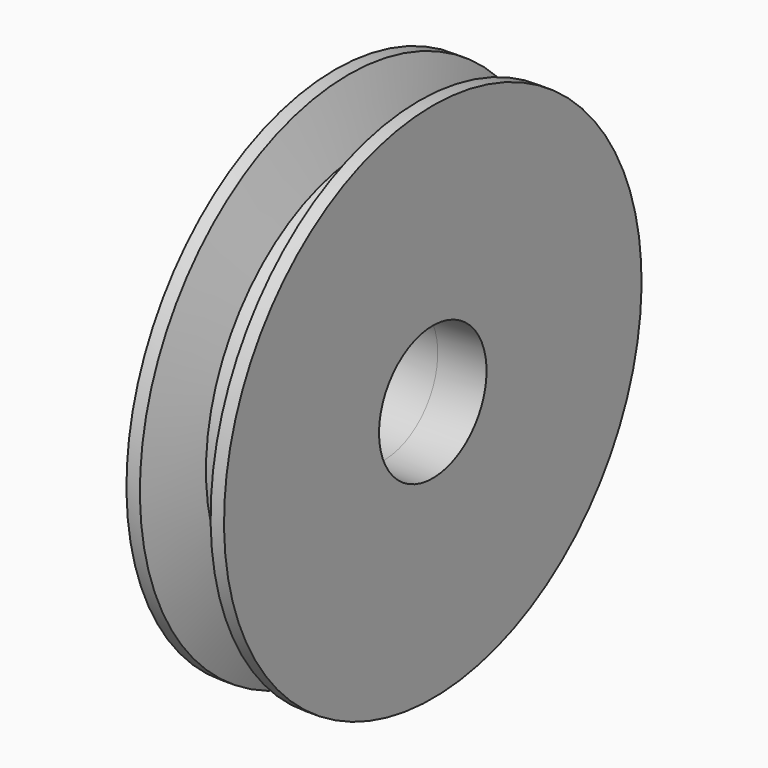
from build123d import *

# Parameters (mm, degrees)
F2_R     = 17.5
F3_DEPTH = 25


with BuildPart() as f1:
    # F0 (on Front) → F1 (revolve)
    with BuildSketch(Plane.XZ):
        Polygon((0, 37.8452404466), (0, 0), (12.7, 0), (12.7, 52.3875), (4.4460149232, 52.3875), align=None)
        Polygon((0, 52.3875), (0, 37.8452404466), (4.4460149232, 52.3875), align=None)
        Polygon((9.20242, 67.945), (4.4460149232, 52.3875), (12.7, 52.3875), (12.7, 67.945), align=None)
    revolve(axis=Axis((21.4788783342, 0, 0), (1, 0, 0)))

    # F2 (on face) → F3 (cut)
    with BuildSketch(Plane(origin=(0, 0, 0), x_dir=(0, -1, 0), z_dir=(-1, 0, 0))):
        Circle(F2_R)
    extrude(amount=-F3_DEPTH, mode=Mode.SUBTRACT)

    # F4: F1 across plane


with BuildPart() as f1_1:
    add(f1.part)
    add(f1.part.mirror(Plane.YZ))


solid = f1_1.part
